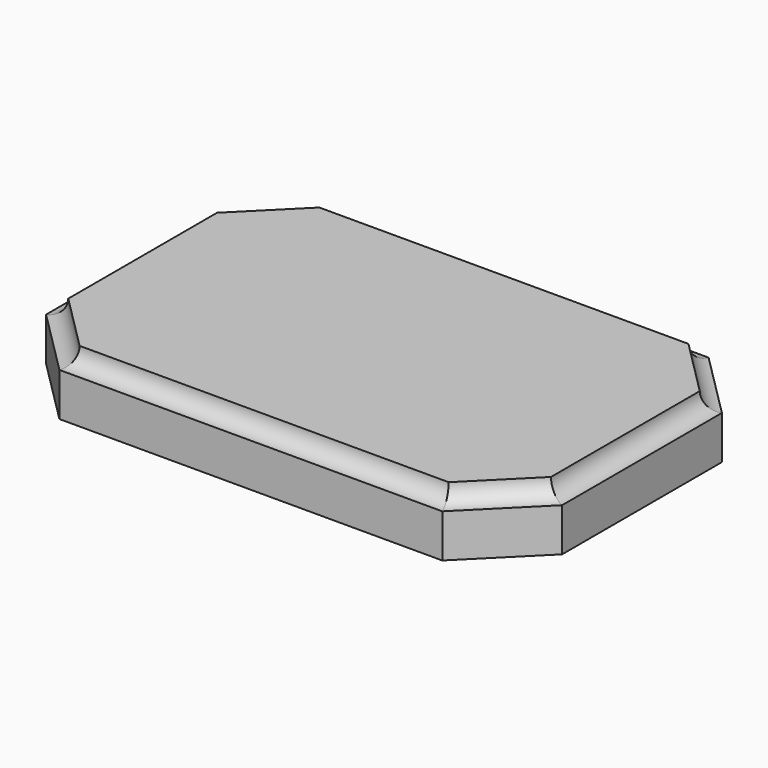
from build123d import *

# Parameters (mm, degrees)
F0_W     = 155
F0_H     = 100
F1_DEPTH = 18
F2_SIZE  = 20
F4_R     = 5


with BuildPart() as f1:
    # F0 (on Top) → F1 (new body)
    with BuildSketch(Plane.XY):
        with Locations((77.5, 50)):
            Rectangle(F0_W, F0_H)
    extrude(amount=F1_DEPTH)

    # F2
    f2_edges = [f1.edges().sort_by_distance(p)[0] for p in [
        (155, 100, 9),
        (155, 0, 9),
        (0, 100, 9),
        (0, 0, 9),
    ]]
    chamfer(f2_edges, length=F2_SIZE)

    # F6: sweep along a path in F5
    with BuildLine(Plane.XY.offset(18)) as f6_path:
        Line((0, 80), (20, 100))
        Line((20, 100), (135.0186169147, 100))
        Line((135.0186169147, 100), (155, 80))
        Line((155, 80), (155, 20))
        Line((155, 20), (135, 0))
        Line((135, 0), (20, 0))
        Line((20, 0), (0, 20))
        Line((0, 20), (0, 25))
        Line((0, 25), (0, 80))
    # F4 (on offset) → F6 (sweep, cut)
    with BuildSketch(Plane.XZ.offset(-25)):
        with Locations((0, 18)):
            Circle(F4_R)
    sweep(path=f6_path.line, transition=Transition.RIGHT, mode=Mode.SUBTRACT)


solid = f1.part
